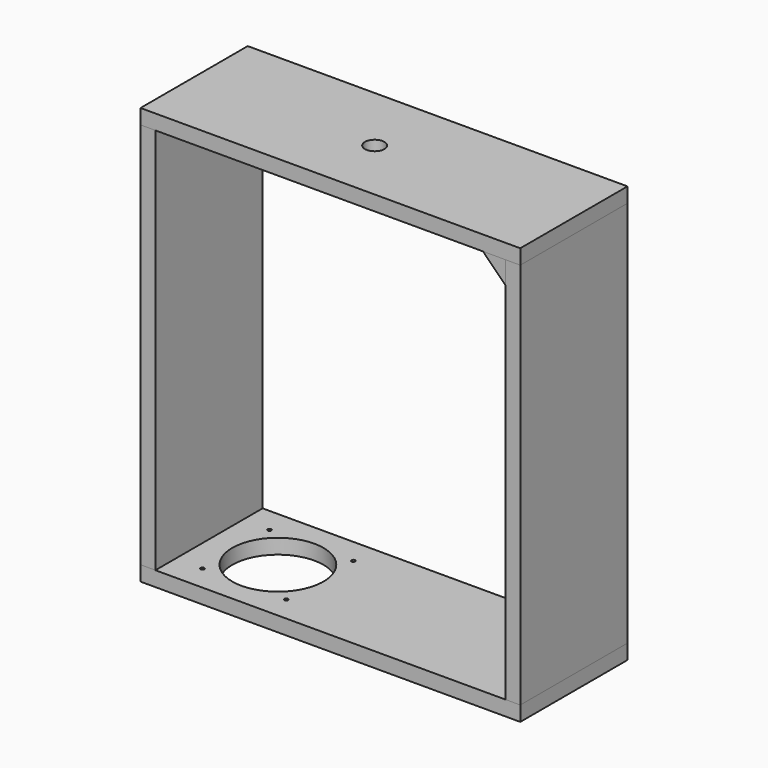
from build123d import *

# Parameters (mm, degrees)
F0_W     = 323.85
F0_H     = 114.3
F1_DEPTH = 12.7
F2_W     = 114.3
F2_H     = 330.2
F3_DEPTH = 12.7
F4_W     = 114.3
F4_H     = 330.2
F5_DEPTH = 12.7
F7_DEPTH = 114.3
F8_W     = 323.85
F8_H     = 114.3
F9_DEPTH = 12.7
F11_D    = 16.66875
F13_D    = 77.7875
F15_D    = 3.175


with BuildPart() as f1:
    # F0 (on Top) → F1 (new body)
    with BuildSketch(Plane.XY):
        Rectangle(F0_W, F0_H)
    extrude(amount=F1_DEPTH)

    # F11 (through all)
    with Locations(Plane.XY.offset(12.7)):
        with Locations((-6.35, -1.97866)):
            Hole(F11_D / 2)


with BuildPart() as f3:
    # F2 (on face) → F3 (new body)
    with BuildSketch(Plane.YZ.offset(161.925)):
        with Locations((0, -165.1)):
            Rectangle(F2_W, F2_H)
    extrude(amount=-F3_DEPTH)


with BuildPart() as f5:
    # F4 (on face) → F5 (new body)
    with BuildSketch(Plane(origin=(-161.925, 0, 0), x_dir=(0, -1, 0), z_dir=(-1, 0, 0))):
        with Locations((0, -165.1)):
            Rectangle(F4_W, F4_H)
    extrude(amount=-F5_DEPTH)


with BuildPart() as f7:
    # F6 (on face) → F7 (new body, through all)
    with BuildSketch(Plane(origin=(0, 57.15, 0), x_dir=(-1, 0, 0), z_dir=(0, 1, 0))):
        Polygon((-130.175, 0), (-149.225, 0), (-149.225, -19.05), align=None)
    extrude(amount=-F7_DEPTH)


with BuildPart() as f9:
    # F8 (on face) → F9 (new body)
    with BuildSketch(Plane(origin=(0, 0, -330.2), x_dir=(1, 0, 0), z_dir=(0, 0, -1))):
        Rectangle(F8_W, F8_H)
    extrude(amount=F9_DEPTH)

    # F13 (through all)
    with Locations(Plane(origin=(0, 0, -342.9), x_dir=(1, 0, 0), z_dir=(0, 0, -1))):
        with Locations((-90.4875, 0)):
            Hole(F13_D / 2)

    # F15 (through all)
    with Locations(Plane(origin=(0, 0, -342.9), x_dir=(1, 0, 0), z_dir=(0, 0, -1))):
        with Locations((-54.737, 35.7505), (-126.238, 35.7505), (-126.238, -35.7505), (-54.737, -35.7505)):
            Hole(F15_D / 2)


solid = Compound([f1.part, f3.part, f5.part, f7.part, f9.part])
